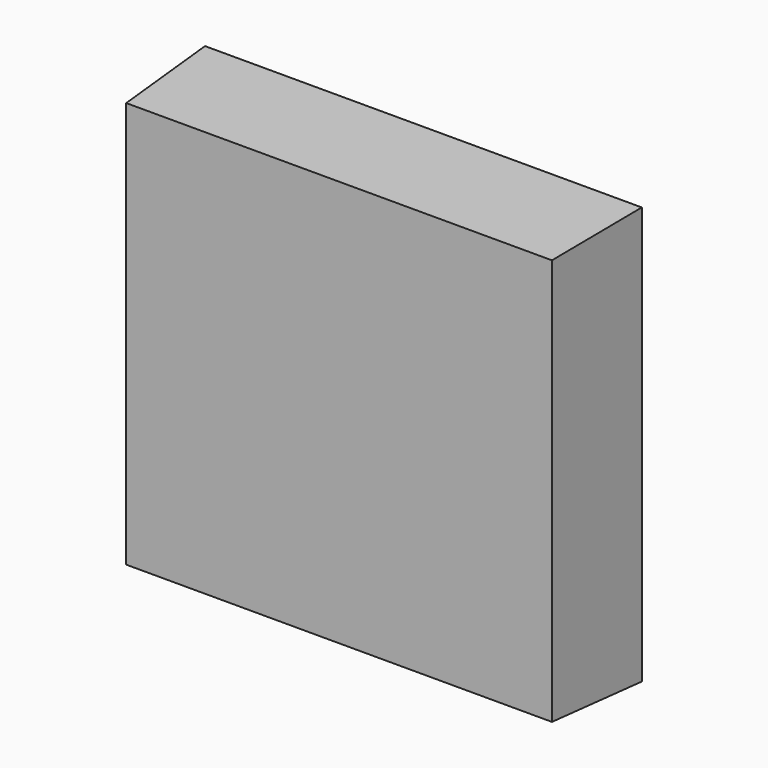
from build123d import *

# Parameters (mm, degrees)
F0_W     = 153.9223492146
F0_H     = 146.9265222549
F2_DEPTH = 38.1
F2_TAPER = -3


with BuildPart() as f2:
    # F0 (on Front) → F2 (new body)
    with BuildSketch(Plane.XZ):
        with Locations((2.724930644, 1.0862499475)):
            Rectangle(F0_W, F0_H)
    extrude(amount=-F2_DEPTH, taper=F2_TAPER)


solid = f2.part
